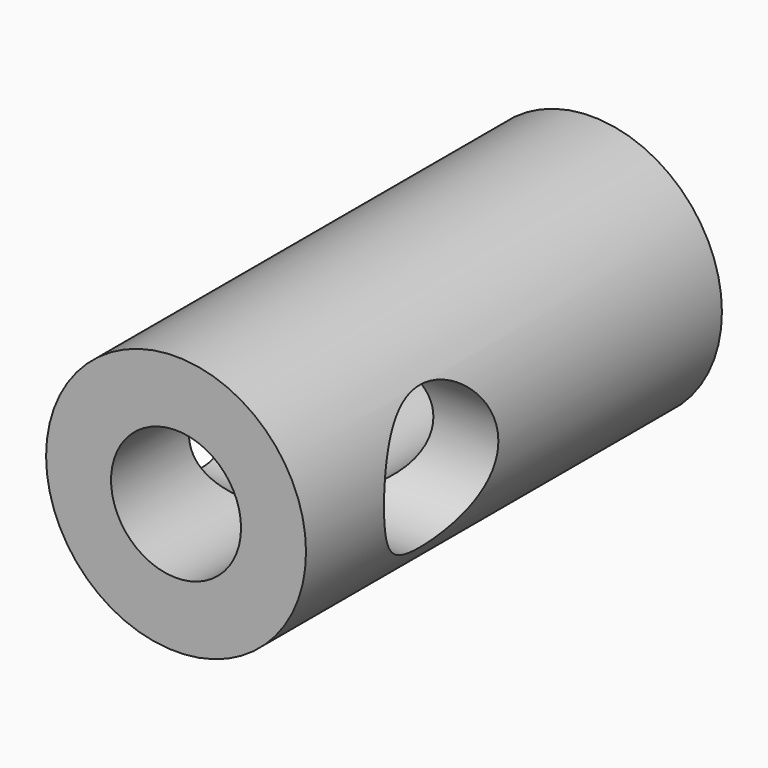
from build123d import *

# Parameters (mm, degrees)
F0_R          = 10
F1_DEPTH      = 40
F2_R          = 2.25
F3_DEPTH      = 40
F4_R          = 5
F5_DEPTH      = 35
F6_R          = 5.5
F7_DEPTH      = 10.001
F7_DEPTH_BACK = 10.001


with BuildPart() as f1:
    # F0 (on Front) → F1 (new body)
    with BuildSketch(Plane.XZ):
        Circle(F0_R)
    extrude(amount=F1_DEPTH)

    # F2 (on face) → F3 (cut, through all)
    with BuildSketch(Plane(origin=(0, 0, 0), x_dir=(-1, 0, 0), z_dir=(0, 1, 0))):
        Circle(F2_R)
    extrude(amount=-F3_DEPTH, mode=Mode.SUBTRACT)

    # F4 (on face) → F5 (cut)
    with BuildSketch(Plane.XZ.offset(40)):
        Circle(F4_R)
    extrude(amount=-F5_DEPTH, mode=Mode.SUBTRACT)

    # F6 (on Right) → F7 (cut, two sides)
    with BuildSketch(Plane.YZ) as f7_sk:
        with Locations((-27, 0)):
            Circle(F6_R)
    extrude(amount=-F7_DEPTH, mode=Mode.SUBTRACT)
    extrude(f7_sk.sketch, amount=F7_DEPTH_BACK, mode=Mode.SUBTRACT)


solid = f1.part
